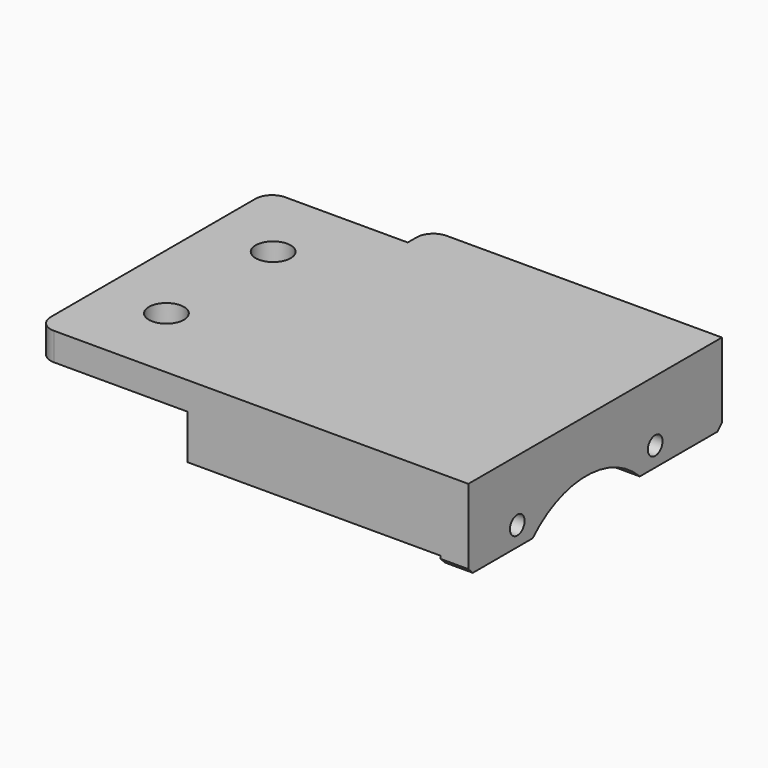
from build123d import *

# Parameters (mm, degrees)
CYLINDER026_R     = 3.15
CYLINDER026_DEPTH = 10
CYLINDER027_R     = 3.15
CYLINDER027_DEPTH = 10
CYLINDER028_R     = 1.65
CYLINDER028_DEPTH = 83
CYLINDER029_R     = 1.65
CYLINDER029_DEPTH = 83
BOX022_W          = 50.5
BOX022_H          = 8
BOX022_DEPTH      = 9
CHAMFER026_SIZE   = 7
CYLINDER025_R     = 17
CYLINDER025_DEPTH = 83
BOX021_W          = 5
BOX021_H          = 57
BOX021_DEPTH      = 10
CHAMFER027_SIZE   = 1
BOX024_W          = 8
BOX024_H          = 16
BOX024_DEPTH      = 2
BOX036_W          = 28
BOX036_H          = 14
BOX036_DEPTH      = 10
BOX023_W          = 77.5
BOX023_H          = 57
BOX023_DEPTH      = 5
FILLET002_R       = 3


with BuildPart() as cylinder012:
    # Cylinder026 → Cylinder026 (new body)
    with BuildSketch(Plane(origin=(-15, 11.5, 26), x_dir=(1, 0, 0), z_dir=(0, 0, 1))):
        Circle(CYLINDER026_R)
    extrude(amount=CYLINDER026_DEPTH)


with BuildPart() as fusion006002011004053036004001028003008:
    # Cylinder027 → Cylinder027 (new body)
    with BuildSketch(Plane(origin=(-15, -12.5, 26), x_dir=(1, 0, 0), z_dir=(0, 0, 1))):
        Circle(CYLINDER027_R)
    extrude(amount=CYLINDER027_DEPTH)

    # Fusion006002011004053036004001028003008: union Cylinder012
    add(cylinder012.part)


with BuildPart() as obj1:
    # Cylinder028 → Cylinder028 (new body)
    with BuildSketch(Plane(origin=(25.5, -15.5, 24), x_dir=(0, 0, -1), z_dir=(1, 0, 0))):
        Circle(CYLINDER028_R)
    extrude(amount=CYLINDER028_DEPTH)


with BuildPart() as fusion006002011004053036004001024:
    # Cylinder029 → Cylinder029 (new body)
    with BuildSketch(Plane(origin=(25.5, 15.5, 24), x_dir=(0, 0, -1), z_dir=(1, 0, 0))):
        Circle(CYLINDER029_R)
    extrude(amount=CYLINDER029_DEPTH)

    # Fusion006002011004053036004001024: union obj1
    add(obj1.part)


with BuildPart() as chamfer026:
    # Box022 → Box022 (new body)
    with BuildSketch(Plane(origin=(0, -26.5, 22), x_dir=(1, 0, 0), z_dir=(0, 0, 1))):
        with Locations((25.25, 4)):
            Rectangle(BOX022_W, BOX022_H)
    extrude(amount=BOX022_DEPTH)

    # Chamfer026
    chamfer026_edges = [chamfer026.edges().sort_by_distance(p)[0] for p in [
        (25.25, -18.5, 22),
    ]]
    chamfer(chamfer026_edges, length=CHAMFER026_SIZE)


with BuildPart() as obj2:
    # Cylinder025 → Cylinder025 (new body)
    with BuildSketch(Plane(origin=(18.5, 0, 8.5), x_dir=(0, 0, -1), z_dir=(1, 0, 0))):
        Circle(CYLINDER025_R)
    extrude(amount=CYLINDER025_DEPTH)


with BuildPart() as cut001022:
    # Box021 → Box021 (new body)
    with BuildSketch(Plane(origin=(45.5, -26.5, 20.5), x_dir=(1, 0, 0), z_dir=(0, 0, 1))):
        with Locations((2.5, 28.5)):
            Rectangle(BOX021_W, BOX021_H)
    extrude(amount=BOX021_DEPTH)

    # Chamfer027
    chamfer027_edges = [cut001022.edges().sort_by_distance(p)[0] for p in [
        (48, -26.5, 20.5),
        (48, 30.5, 20.5),
    ]]
    chamfer(chamfer027_edges, length=CHAMFER027_SIZE)

    # Cut001022: cut obj2
    add(obj2.part, mode=Mode.SUBTRACT)


with BuildPart() as cube024:
    # Box024 → Box024 (new body)
    with BuildSketch(Plane(origin=(-19, -8.5, 28), x_dir=(1, 0, 0), z_dir=(0, 0, 1))):
        with Locations((4, 8)):
            Rectangle(BOX024_W, BOX024_H)
    extrude(amount=BOX024_DEPTH)


with BuildPart() as cube036:
    # Box036 → Box036 (new body)
    with BuildSketch(Plane(origin=(-30, 25.5, 25), x_dir=(1, 0, 0), z_dir=(0, 0, 1))):
        with Locations((14, 7)):
            Rectangle(BOX036_W, BOX036_H)
    extrude(amount=BOX036_DEPTH)


with BuildPart() as cut001024014:
    # Box023 → Box023 (new body)
    with BuildSketch(Plane(origin=(-27, -26.5, 30), x_dir=(1, 0, 0), z_dir=(0, 0, 1))):
        with Locations((38.75, 28.5)):
            Rectangle(BOX023_W, BOX023_H)
    extrude(amount=BOX023_DEPTH)

    # Cut001024012: cut Cube036
    add(cube036.part, mode=Mode.SUBTRACT)

    # Fillet002
    fillet002_edges = [cut001024014.edges().sort_by_distance(p)[0] for p in [
        (-27, 25.5, 32.5),
        (-27, -26.5, 32.5),
        (-2, 30.5, 32.5),
    ]]
    fillet(fillet002_edges, radius=FILLET002_R)

    # Fusion006002011004053036004001028003007: union Chamfer026, Cut001022, Cube024
    add(chamfer026.part)
    add(cut001022.part)
    add(cube024.part)

    # Cut001024013: cut Fusion006002011004053036004001024
    add(fusion006002011004053036004001024.part, mode=Mode.SUBTRACT)

    # Cut001024014: cut Fusion006002011004053036004001028003008
    add(fusion006002011004053036004001028003008.part, mode=Mode.SUBTRACT)


solid = cut001024014.part
